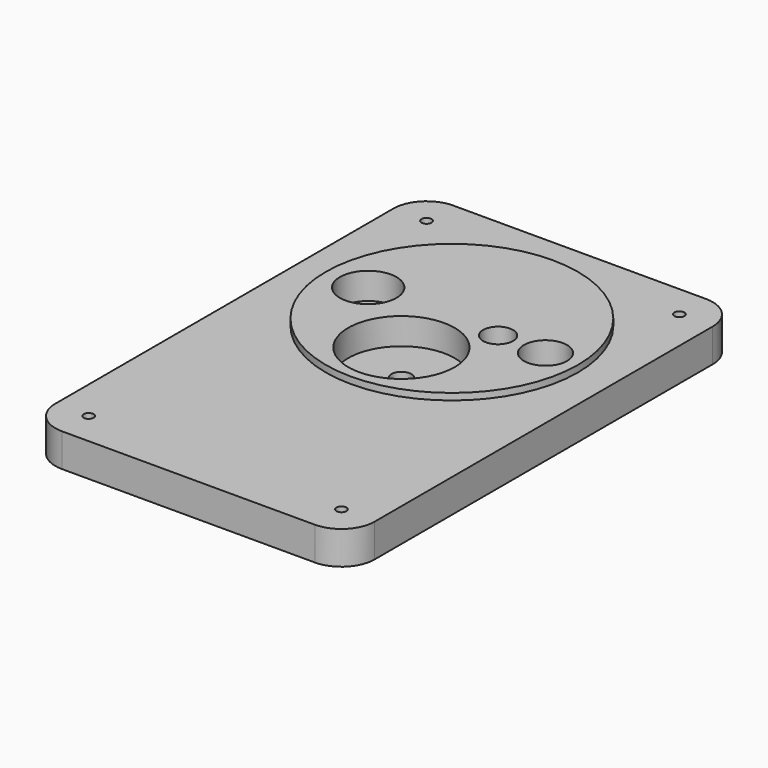
from build123d import *

# Parameters (mm, degrees)
SKETCH037_W     = 96
SKETCH037_H     = 147
PAD011_DEPTH    = 10
SKETCH038_R     = 37.9
PAD012_DEPTH    = 2
SKETCH039_R     = 16
POCKET006_DEPTH = 8
SKETCH040_R     = 3
POCKET007_DEPTH = 4.001
SKETCH041_R     = 8.5
POCKET008_DEPTH = 8
SKETCH042_R     = 6
POCKET009_DEPTH = 4.001
SKETCH043_R     = 4.5
SKETCH043_R_2   = 6.5
POCKET010_DEPTH = 9
SKETCH044_R     = 4
SKETCH044_R_2   = 3
POCKET011_DEPTH = 3.001
SKETCH048_R     = 1.5
SKETCH048_R_2   = 1
POCKET012_DEPTH = 10.001
FILLET004_R     = 10


with BuildPart() as part:
    # Sketch037 → Pad011 (new body)
    with BuildSketch(Plane.XY):
        with Locations((-206.727857, -364.966475)):
            Rectangle(SKETCH037_W, SKETCH037_H)
    extrude(amount=PAD011_DEPTH)

    # Sketch038 (on Face6 of Pad011) → Pad012 (join)
    with BuildSketch(Plane.XY.offset(10)):
        with Locations((-206.727857, -339.466475)):
            Circle(SKETCH038_R)
    extrude(amount=PAD012_DEPTH)

    # Sketch039 (on Face8 of Pad012) → Pocket006 (cut)
    with BuildSketch(Plane.XY.offset(12)):
        with Locations((-206.727857, -358.416475)):
            Circle(SKETCH039_R)
    extrude(amount=-POCKET006_DEPTH, mode=Mode.SUBTRACT)

    # Sketch040 (on Face10 of Pocket006) → Pocket007 (cut, through all)
    with BuildSketch(Plane.XY.offset(4)):
        with Locations((-206.727857, -358.416475)):
            Circle(SKETCH040_R)
    extrude(amount=-POCKET007_DEPTH, mode=Mode.SUBTRACT)

    # Sketch041 (on Face8 of Pad012) → Pocket008 (cut)
    with BuildSketch(Plane.XY.offset(12)):
        with Locations((-231.877857, -339.466475)):
            Circle(SKETCH041_R)
    extrude(amount=-POCKET008_DEPTH, mode=Mode.SUBTRACT)

    # Sketch042 (on Face13 of Pocket008) → Pocket009 (cut, through all)
    with BuildSketch(Plane.XY.offset(4)):
        with Locations((-231.877857, -339.466475)):
            Circle(SKETCH042_R)
    extrude(amount=-POCKET009_DEPTH, mode=Mode.SUBTRACT)

    # Sketch043 (on Face8 of Pad012) → Pocket010 (cut)
    with BuildSketch(Plane.XY.offset(12)):
        with Locations((-192.827857, -339.466475)):
            Circle(SKETCH043_R)
        with Locations((-178.577857, -339.466475)):
            Circle(SKETCH043_R_2)
    extrude(amount=-POCKET010_DEPTH, mode=Mode.SUBTRACT)

    # Sketch044 (on Face18 of Pocket010) → Pocket011 (cut, through all)
    with BuildSketch(Plane.XY.offset(3)):
        with Locations((-178.577857, -339.466475)):
            Circle(SKETCH044_R)
        with Locations((-192.827857, -339.466475)):
            Circle(SKETCH044_R_2)
    extrude(amount=-POCKET011_DEPTH, mode=Mode.SUBTRACT)

    # Sketch048 (on Face5 of Pocket011) → Pocket012 (cut, through all)
    with BuildSketch(Plane.XY.offset(10)):
        with Locations((-244.727857, -301.466475)):
            Circle(SKETCH048_R)
        with Locations((-168.727857, -301.466475)):
            Circle(SKETCH048_R)
        with Locations((-168.727857, -428.466475)):
            Circle(SKETCH048_R)
        with Locations((-244.727857, -428.466475)):
            Circle(SKETCH048_R)
        with Locations((-214.611015, -276.454363)):
            Circle(SKETCH048_R_2)
        with Locations((-201.837814, -276.122591)):
            Circle(SKETCH048_R)
    extrude(amount=-POCKET012_DEPTH, mode=Mode.SUBTRACT)

    # Fillet004
    fillet004_edges = [part.edges().sort_by_distance(p)[0] for p in [
        (-254.727857, -438.466475, 5),
        (-158.727857, -438.466475, 5),
        (-254.727857, -291.466475, 5),
        (-158.727857, -291.466475, 5),
    ]]
    fillet(fillet004_edges, radius=FILLET004_R)


with BuildPart() as part_1:
    # Body010 placement: moved
    add(part.part.moved(Location((261.973389, 284.251869, 0))))


solid = part_1.part
